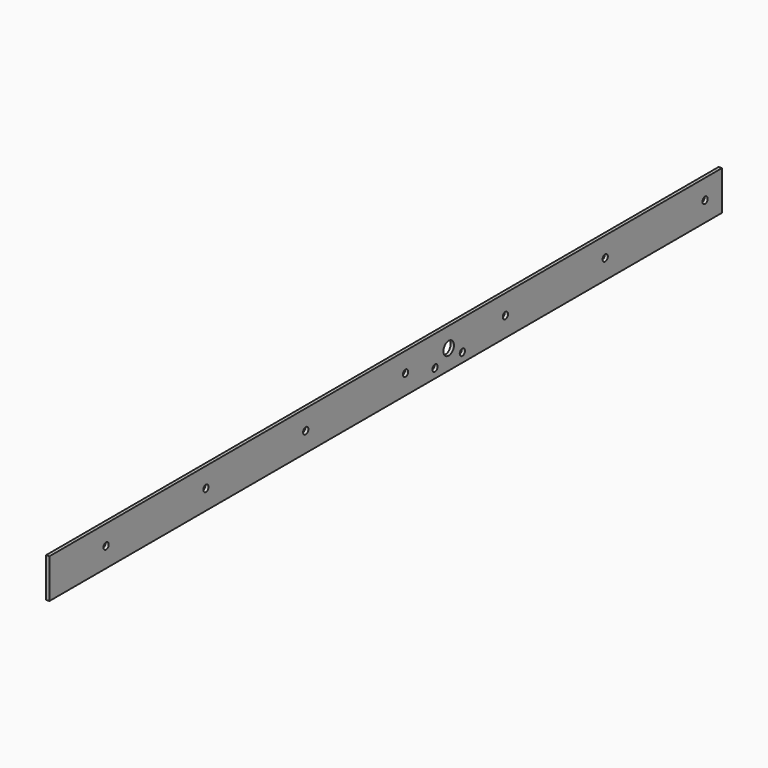
from build123d import *

# Parameters (mm, degrees)
F1_DEPTH = 812.8
F2_R     = 6.35
F2_R_2   = 3.175
F3_DEPTH = 25.4
F4_R     = 3.175
F5_DEPTH = 25.4


with BuildPart() as f1:
    # F0 (on Front) → F1 (new body)
    with BuildSketch(Plane.XZ):
        Polygon((0, -3.175), (0, 0), (0, 34.925), (-3.175, 34.925), (-3.175, -3.175), align=None)
    extrude(amount=F1_DEPTH)

    # F2 (on face) → F3 (cut)
    with BuildSketch(Plane.YZ):
        with Locations((-330.2, 15.875)):
            Circle(F2_R)
        with Locations((-346.71, 5.715)):
            Circle(F2_R_2)
        with Locations((-313.69, 5.715)):
            Circle(F2_R_2)
    extrude(amount=-F3_DEPTH, mode=Mode.SUBTRACT)

    # F4 (on face) → F5 (cut)
    with BuildSketch(Plane.YZ):
        with Locations((-20.366231, 15.875)):
            Circle(F4_R)
        with Locations((-141.016231, 15.875)):
            Circle(F4_R)
        with Locations((-261.666231, 15.875)):
            Circle(F4_R)
        with Locations((-382.316231, 15.875)):
            Circle(F4_R)
        with Locations((-502.966231, 15.875)):
            Circle(F4_R)
        with Locations((-623.616231, 15.875)):
            Circle(F4_R)
        with Locations((-744.266231, 15.875)):
            Circle(F4_R)
    extrude(amount=-F5_DEPTH, mode=Mode.SUBTRACT)


solid = f1.part
